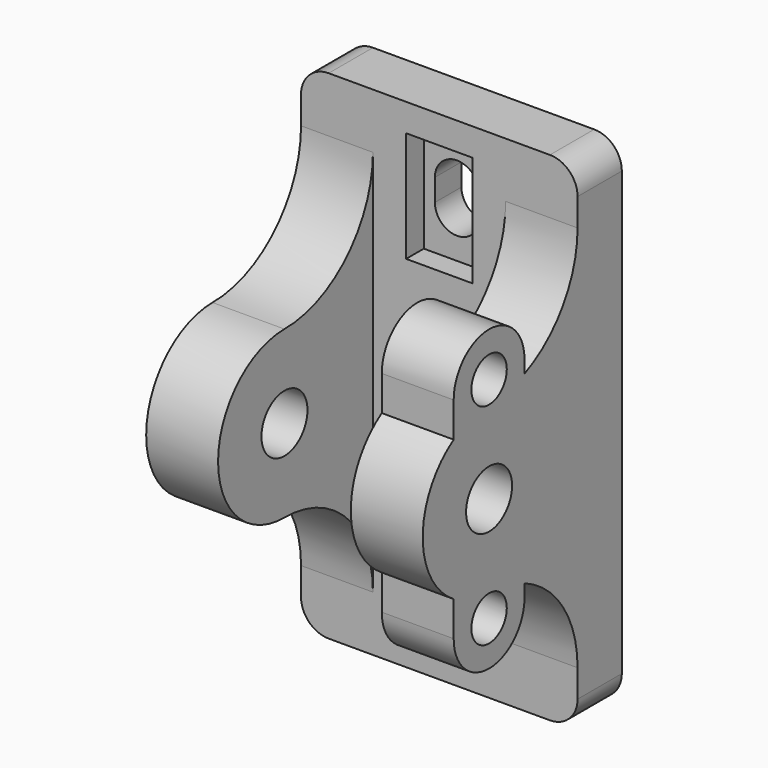
from build123d import *

# Parameters (mm, degrees)
F1_DEPTH  = 5
F2_W      = 6
F2_H      = 10
F3_DEPTH  = 2
F5_START  = 6
F4_R      = 2.6
F5_DEPTH  = 6.5
F6_START  = -6
F6_DEPTH  = 6.5
F7_R      = 5.5
F8_DEPTH  = 2.5
F9_R      = 2
F10_DEPTH = 6.5
F11_R     = 3
F12_DEPTH = 3


with BuildPart() as f1:
    # F0 (on Front) → F1 (new body)
    with BuildSketch(Plane.XZ):
        with BuildLine():
            Line((10, 22.5), (-10, 22.5))
            ThreePointArc((-10, 22.5), (-11.767766953, 21.767766953), (-12.5, 20))
            Line((-12.5, 20), (-12.5, -20))
            ThreePointArc((-12.5, -20), (-11.767766953, -21.767766953), (-10, -22.5))
            Line((-10, -22.5), (10, -22.5))
            ThreePointArc((10, -22.5), (11.767766953, -21.767766953), (12.5, -20))
            Line((12.5, -20), (12.5, 20))
            ThreePointArc((12.5, 20), (11.767766953, 21.767766953), (10, 22.5))
        make_face()
        with BuildLine():
            ThreePointArc((-2, -14), (0, -12), (2, -14))
            Line((2, -14), (2, -16))
            ThreePointArc((2, -16), (0, -18), (-2, -16))
            Line((-2, -16), (-2, -14))
        make_face(mode=Mode.SUBTRACT)
        with BuildLine():
            ThreePointArc((2, 14), (0, 12), (-2, 14))
            Line((-2, 14), (-2, 16))
            ThreePointArc((-2, 16), (0, 18), (2, 16))
            Line((2, 16), (2, 14))
        make_face(mode=Mode.SUBTRACT)
    extrude(amount=F1_DEPTH)

    # F2 (on face) → F3 (cut)
    with BuildSketch(Plane.XZ.offset(5)):
        with Locations((0, 15)):
            Rectangle(F2_W, F2_H)
        with Locations((0, -15)):
            Rectangle(F2_W, F2_H)
    extrude(amount=-F3_DEPTH, mode=Mode.SUBTRACT)

    # F4 (on Right) → F5 (join)
    with BuildSketch(Plane.YZ.offset(F5_START)):
        with BuildLine():
            ThreePointArc((-5, 17.5), (-7.9289321881, 10.4289321881), (-15, 7.5))
            ThreePointArc((-15, 7.5), (-22.5, 0), (-15, -7.5))
            ThreePointArc((-15, -7.5), (-7.9289321881, -10.4289321881), (-5, -17.5))
            Line((-5, -17.5), (-5, 17.5))
        make_face()
        with Locations((-15, 0)):
            Circle(F4_R, mode=Mode.SUBTRACT)
    extrude(amount=F5_DEPTH)

    # F4 (on Right) → F6 (join)
    with BuildSketch(Plane.YZ.offset(F6_START)):
        with BuildLine():
            ThreePointArc((-5, 17.5), (-7.9289321881, 10.4289321881), (-15, 7.5))
            ThreePointArc((-15, 7.5), (-22.5, 0), (-15, -7.5))
            ThreePointArc((-15, -7.5), (-7.9289321881, -10.4289321881), (-5, -17.5))
            Line((-5, -17.5), (-5, 17.5))
        make_face()
        with Locations((-15, 0)):
            Circle(F4_R, mode=Mode.SUBTRACT)
    extrude(amount=-F6_DEPTH)

    # F7 (on face) → F8 (cut)
    with BuildSketch(Plane(origin=(-12.5, 0, 0), x_dir=(0, -1, 0), z_dir=(-1, 0, 0))):
        with Locations((15, 0)):
            Circle(F7_R)
    extrude(amount=-F8_DEPTH, mode=Mode.SUBTRACT)

    # F9 (on face) → F10 (join, through all)
    with BuildSketch(Plane.YZ.offset(12.5)):
        with BuildLine():
            Line((-11, 2.6), (-11, 9.5))
            ThreePointArc((-11, 9.5), (-15, 13.5), (-19, 9.5))
            Line((-19, 9.5), (-19, 2.6))
            Line((-19, 2.6), (-11, 2.6))
        make_face()
        with Locations((-15, 9.5)):
            Circle(F9_R, mode=Mode.SUBTRACT)
        with BuildLine():
            Line((-19, -2.6), (-19, -9.5))
            ThreePointArc((-19, -9.5), (-15, -13.5), (-11, -9.5))
            Line((-11, -9.5), (-11, -2.6))
            Line((-11, -2.6), (-19, -2.6))
        make_face()
        with Locations((-15, -9.5)):
            Circle(F9_R, mode=Mode.SUBTRACT)
    extrude(amount=-F10_DEPTH)

    # F11 (on face) → F12 (cut)
    with BuildSketch(Plane(origin=(6, 0, 0), x_dir=(0, -1, 0), z_dir=(-1, 0, 0))):
        with Locations((15, 9.5)):
            Circle(F11_R)
        with Locations((15, -9.5)):
            Circle(F11_R)
    extrude(amount=-F12_DEPTH, mode=Mode.SUBTRACT)


solid = f1.part
